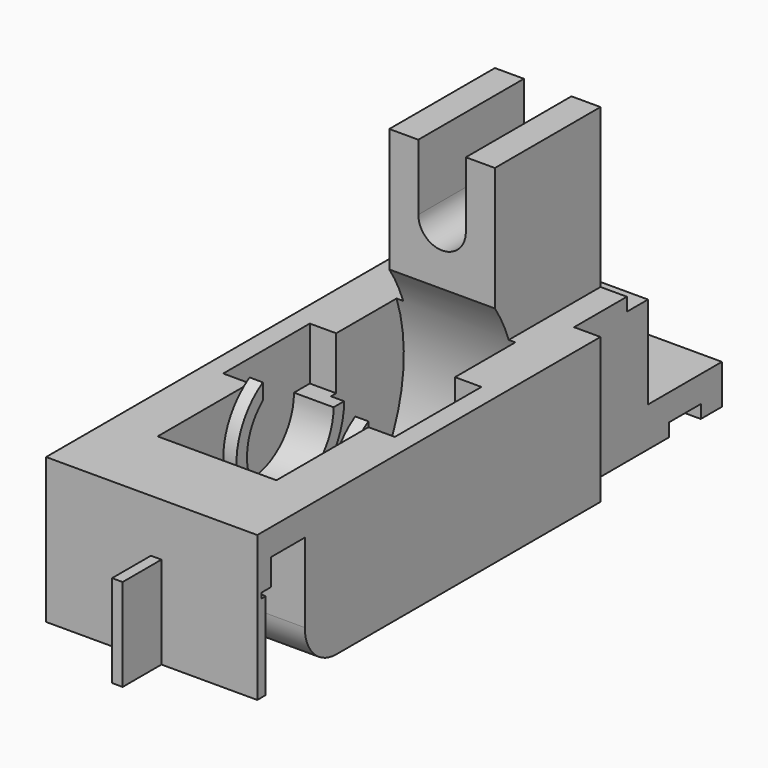
from build123d import *

# Parameters (mm, degrees)
SKETCH_W        = 23
SKETCH_H        = 42
PAD_DEPTH       = 16
SKETCH001_W     = 12
SKETCH001_H     = 32
POCKET_DEPTH    = 16
SKETCH002_W     = 12
SKETCH002_H     = 4
POCKET001_DEPTH = 10
SKETCH003_W     = 6
SKETCH003_H     = 6
POCKET002_DEPTH = 11
SKETCH004_R     = 12
POCKET003_DEPTH = 1.5
SKETCH005_R     = 12
POCKET004_DEPTH = 1.5
SKETCH006_R     = 4.1
POCKET005_DEPTH = 2
SKETCH007_R     = 4.1
POCKET006_DEPTH = 2
SKETCH008_R     = 5.1
SKETCH008_R_2   = 4.1
PAD001_DEPTH    = 1
SKETCH009_R     = 5.1
SKETCH009_R_2   = 4.1
PAD002_DEPTH    = 1
SKETCH010_W     = 6
SKETCH010_H     = 8.2
POCKET007_DEPTH = 3
SKETCH011_W     = 6
SKETCH011_H     = 8.2
POCKET008_DEPTH = 3
SKETCH012_R     = 12
POCKET009_DEPTH = 6
SKETCH013_W     = 5
SKETCH013_H     = 10
POCKET010_DEPTH = 1
POCKET011_DEPTH = 16
SKETCH015_W     = 5
SKETCH015_H     = 2
POCKET012_DEPTH = 11
FILLET_R        = 3
PAD003_DEPTH    = 7
SKETCH017_W     = 0.4
SKETCH017_H     = 16
POCKET013_DEPTH = 0.4
SKETCH018_W     = 10
SKETCH018_H     = 12
PAD004_DEPTH    = 9
SKETCH019_W     = 1
SKETCH019_H     = 3
SKETCH019_W_2   = 7.000006
SKETCH019_H_2   = 7
POCKET014_DEPTH = 14.001


with BuildPart() as part:
    # Sketch → Pad (new body)
    with BuildSketch(Plane.ZY):
        with Locations((-37.200437, 34.285206)):
            Rectangle(SKETCH_W, SKETCH_H)
    extrude(amount=PAD_DEPTH)

    # Sketch001 → Pocket (cut)
    with BuildSketch(Plane.ZY.offset(16)):
        with Locations((-31.700437, 29.285206)):
            Rectangle(SKETCH001_W, SKETCH001_H)
    extrude(amount=-POCKET_DEPTH, mode=Mode.SUBTRACT)

    # Sketch002 → Pocket001 (cut)
    with BuildSketch(Plane(origin=(0, 55.285206, 0), x_dir=(0, 0, -1), z_dir=(0, 1, 0))):
        with Locations((31.700437, 2)):
            Rectangle(SKETCH002_W, SKETCH002_H)
        with Locations((31.700437, 14)):
            Rectangle(SKETCH002_W, SKETCH002_H)
        with BuildLine():
            ThreePointArc((30.700437, 6.2), (32.500437, 8), (30.700437, 9.8))
            Line((25.700437, 9.8), (30.700437, 9.8))
            Line((25.700437, 6.2), (25.700437, 9.8))
            Line((25.700437, 6.2), (30.700437, 6.2))
        make_face()
    extrude(amount=-POCKET001_DEPTH, mode=Mode.SUBTRACT)

    # Sketch003 → Pocket002 (cut)
    with BuildSketch(Plane(origin=(0, 0, -48.700437), x_dir=(0, -1, 0), z_dir=(0, 0, -1))):
        with Locations((-35.285206, 8)):
            Rectangle(SKETCH003_W, SKETCH003_H)
    extrude(amount=-POCKET002_DEPTH, mode=Mode.SUBTRACT)

    # Sketch004 → Pocket003 (cut)
    with BuildSketch(Plane.ZY.offset(5)):
        with Locations((-41.700437, 35.285206)):
            Circle(SKETCH004_R)
    extrude(amount=-POCKET003_DEPTH, mode=Mode.SUBTRACT)

    # Sketch005 → Pocket004 (cut)
    with BuildSketch(Plane(origin=(-11, 0, 0), x_dir=(0, 0, 1), z_dir=(1, 0, 0))):
        with Locations((-41.700437, -35.285206)):
            Circle(SKETCH005_R)
    extrude(amount=-POCKET004_DEPTH, mode=Mode.SUBTRACT)

    # Sketch006 → Pocket005 (cut)
    with BuildSketch(Plane.ZY.offset(3.5)):
        with Locations((-41.700437, 35.285206)):
            Circle(SKETCH006_R)
    extrude(amount=-POCKET005_DEPTH, mode=Mode.SUBTRACT)

    # Sketch007 → Pocket006 (cut)
    with BuildSketch(Plane(origin=(-12.5, 0, 0), x_dir=(0, 0, 1), z_dir=(1, 0, 0))):
        with Locations((-41.700437, -35.285206)):
            Circle(SKETCH007_R)
    extrude(amount=-POCKET006_DEPTH, mode=Mode.SUBTRACT)

    # Sketch008 → Pad001 (new body)
    with BuildSketch(Plane.ZY.offset(3.5)):
        with Locations((-41.700437, 35.285206)):
            Circle(SKETCH008_R)
        with Locations((-41.700437, 35.285206)):
            Circle(SKETCH008_R_2, mode=Mode.SUBTRACT)
    extrude(amount=PAD001_DEPTH)

    # Sketch009 → Pad002 (new body)
    with BuildSketch(Plane(origin=(-12.5, 0, 0), x_dir=(0, 0, 1), z_dir=(1, 0, 0))):
        with Locations((-41.700437, -35.285206)):
            Circle(SKETCH009_R)
        with Locations((-41.700437, -35.285206)):
            Circle(SKETCH009_R_2, mode=Mode.SUBTRACT)
    extrude(amount=PAD002_DEPTH)

    # Sketch010 → Pocket007 (cut)
    with BuildSketch(Plane.ZY.offset(4.5)):
        with Locations((-38.700437, 36.785206)):
            Rectangle(SKETCH010_W, SKETCH010_H)
    extrude(amount=-POCKET007_DEPTH, mode=Mode.SUBTRACT)

    # Sketch011 → Pocket008 (cut)
    with BuildSketch(Plane(origin=(-11.5, 0, 0), x_dir=(0, 0, 1), z_dir=(1, 0, 0))):
        with Locations((-38.700437, -36.785206)):
            Rectangle(SKETCH011_W, SKETCH011_H)
    extrude(amount=-POCKET008_DEPTH, mode=Mode.SUBTRACT)

    # Sketch012 → Pocket009 (cut)
    with BuildSketch(Plane.ZY.offset(11)):
        with Locations((-41.700437, 35.285206)):
            Circle(SKETCH012_R)
    extrude(amount=-POCKET009_DEPTH, mode=Mode.SUBTRACT)

    # Sketch013 → Pocket010 (cut)
    with BuildSketch(Plane(origin=(0, 0, -48.700437), x_dir=(0, -1, 0), z_dir=(0, 0, -1))):
        with Locations((-50.785206, 8)):
            Rectangle(SKETCH013_W, SKETCH013_H)
    extrude(amount=-POCKET010_DEPTH, mode=Mode.SUBTRACT)

    # Sketch014 → Pocket011 (cut)
    with BuildSketch(Plane.ZY.offset(16)):
        Polygon((-37.700437, 13.285206), (-48.700437, 13.285206), (-48.700437, 22.285206), (-39.700437, 22.285206), (-39.700437, 19.085206), (-41.700437, 19.085206), (-41.700437, 17.785206), (-37.700437, 17.785206), align=None)
    extrude(amount=-POCKET011_DEPTH, mode=Mode.SUBTRACT)

    # Sketch015 → Pocket012 (cut)
    with BuildSketch(Plane(origin=(0, 0, -48.700437), x_dir=(0, -1, 0), z_dir=(0, 0, -1))):
        with Locations((-52.785206, 1)):
            Rectangle(SKETCH015_W, SKETCH015_H)
        with Locations((-52.785206, 15)):
            Rectangle(SKETCH015_W, SKETCH015_H)
    extrude(amount=-POCKET012_DEPTH, mode=Mode.SUBTRACT)

    # Fillet
    fillet_edges = [part.edges().sort_by_distance(p)[0] for p in [
        (-8, 22.285206, -48.700437),
    ]]
    fillet(fillet_edges, radius=FILLET_R)

    # Sketch016 → Pad003 (new body)
    with BuildSketch(Plane(origin=(0, 0, -41.700437), x_dir=(0, -1, 0), z_dir=(0, 0, -1))):
        Polygon((-17.785206, 16), (-17.785206, 8.060191), (-14.110042, 8.060191), (-14.110042, 7.260191), (-17.785206, 7.260191), (-17.785206, 0), (-18.585206, 0), (-18.585206, 16), align=None)
    extrude(amount=PAD003_DEPTH)

    # Sketch017 → Pocket013 (cut)
    with BuildSketch(Plane(origin=(0, 18.585206, 0), x_dir=(0, 0, -1), z_dir=(0, 1, 0))):
        with Locations((41.900437, 8)):
            Rectangle(SKETCH017_W, SKETCH017_H)
    extrude(amount=-POCKET013_DEPTH, mode=Mode.SUBTRACT)

    # Sketch018 → Pad004 (new body)
    with BuildSketch(Plane(origin=(0, 55.285206, 0), x_dir=(0, 0, -1), z_dir=(0, 1, 0))):
        with Locations((43.700437, 8)):
            Rectangle(SKETCH018_W, SKETCH018_H)
    extrude(amount=PAD004_DEPTH)

    # Sketch019 → Pocket014 (cut, through all)
    with BuildSketch(Plane.ZY.offset(14)):
        with Locations((-48.200443, 60.785206)):
            Rectangle(SKETCH019_W, SKETCH019_H)
        with Locations((-42.20044, 60.785206)):
            Rectangle(SKETCH019_W_2, SKETCH019_H_2)
    extrude(amount=-POCKET014_DEPTH, mode=Mode.SUBTRACT)


solid = part.part
